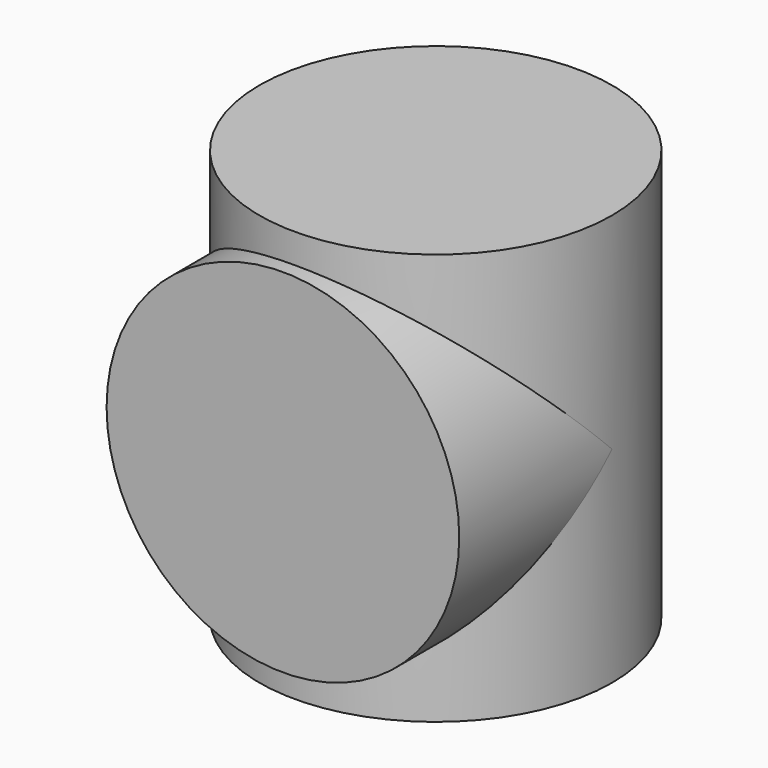
from build123d import *

# Parameters (mm, degrees)
SKETCH_R     = 60
PAD_DEPTH    = 70
SKETCH001_R  = 60
PAD001_DEPTH = 65


with BuildPart() as part:
    # Sketch → Pad (new body, symmetric)
    with BuildSketch(Plane.XY):
        Circle(SKETCH_R)
    extrude(amount=PAD_DEPTH, both=True)

    # Sketch001 → Pad001 (join)
    with BuildSketch(Plane.XZ):
        Circle(SKETCH001_R)
    extrude(amount=PAD001_DEPTH)


solid = part.part
